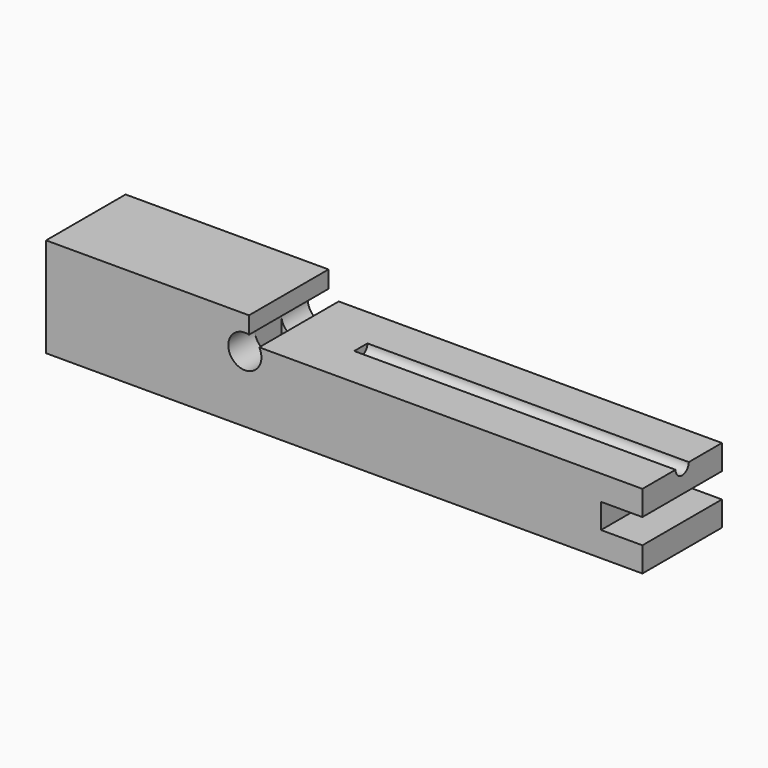
from build123d import *

# Parameters (mm, degrees)
F0_W      = 914.4
F0_H      = 152.4
F1_DEPTH  = 152.4
F2_W      = 127
F2_H      = 50.8
F3_DEPTH  = 101.6
F4_R      = 25.4
F5_DEPTH  = 337.82
F7_DEPTH  = 274.32
F9_DEPTH  = 492.76
F10_W     = 152.4
F10_H     = 38.1
F11_DEPTH = 63.5


with BuildPart() as f1:
    # F0 (on Front) → F1 (new body)
    with BuildSketch(Plane.XZ):
        Rectangle(F0_W, F0_H)
    extrude(amount=F1_DEPTH)

    # F2 (on face) → F3 (cut)
    with BuildSketch(Plane(origin=(0, 0, -76.2), x_dir=(1, 0, 0), z_dir=(0, 0, -1))):
        with Locations((-114.3, 76.2)):
            Rectangle(F2_W, F2_H)
    extrude(amount=-F3_DEPTH, mode=Mode.SUBTRACT)

    # F4 (on face) → F5 (cut)
    with BuildSketch(Plane.XZ.offset(152.4)):
        with Locations((-152.4, 25.4)):
            Circle(F4_R)
    extrude(amount=-F5_DEPTH, mode=Mode.SUBTRACT)

    # F6 (on face) → F7 (cut)
    with BuildSketch(Plane(origin=(0, 0, 0), x_dir=(-1, 0, 0), z_dir=(0, 1, 0))):
        with BuildLine():
            Line((130.4029547439, 38.1), (146.05, 38.1))
            Line((146.05, 38.1), (146.05, 49.9934442484))
            ThreePointArc((146.05, 49.9934442484), (137.0295007332, 45.6214676097), (130.4029547439, 38.1))
        make_face()
        with BuildLine():
            Line((-457.2, 38.1), (130.4029547439, 38.1))
            ThreePointArc((130.4029547439, 38.1), (137.0295007332, 45.6214676097), (146.05, 49.9934442484))
            Line((146.05, 49.9934442484), (146.05, 76.2))
            Line((146.05, 76.2), (-457.2, 76.2))
            Line((-457.2, 76.2), (-457.2, 38.1))
        make_face()
    extrude(amount=-F7_DEPTH, mode=Mode.SUBTRACT)

    # F8 (on face) → F9 (cut)
    with BuildSketch(Plane.YZ.offset(457.2)):
        with BuildLine():
            ThreePointArc((-88.9, 38.1), (-76.2, 25.4), (-63.5, 38.1))
            Line((-63.5, 38.1), (-88.9, 38.1))
        make_face()
    extrude(amount=-F9_DEPTH, mode=Mode.SUBTRACT)

    # F10 (on face) → F11 (cut)
    with BuildSketch(Plane.YZ.offset(457.2)):
        with Locations((-76.2, -19.05)):
            Rectangle(F10_W, F10_H)
    extrude(amount=-F11_DEPTH, mode=Mode.SUBTRACT)


solid = f1.part
